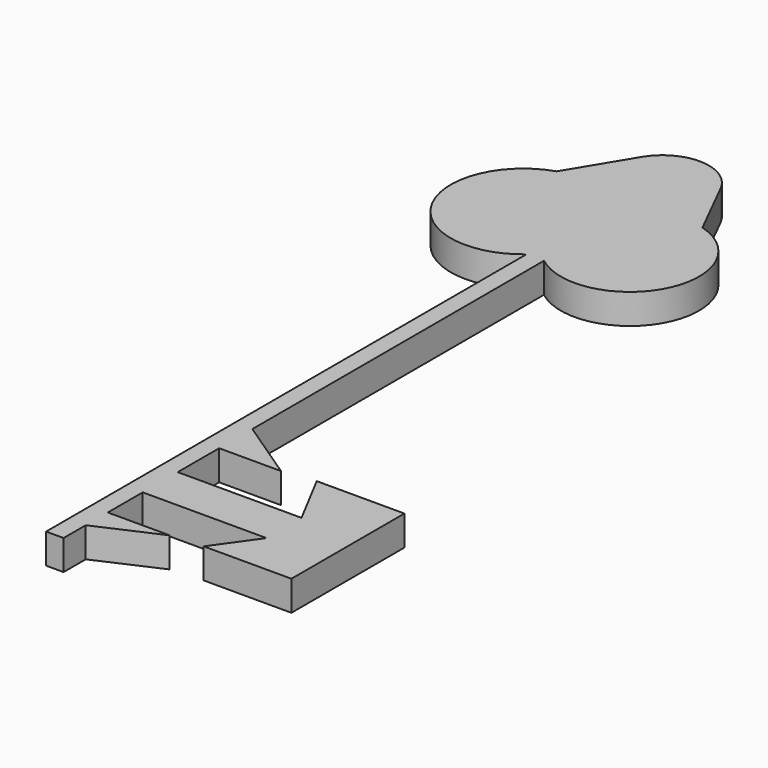
from build123d import *

# Parameters (mm, degrees)
F1_DEPTH = 2.54


with BuildPart() as f1:
    # F0 (on Top) → F1 (new body)
    with BuildSketch(Plane.XY):
        Polygon((-18.9549345523, 0), (-29.4273919121, 0), (-29.4273919121, -3.7036151625), (-18.9549345523, -3.7036151625), (-21.4509958446, -7.2187334299), (-14.033768326, -7.2187334299), (-14.033768326, -4.4066389091), (-14.033768326, 4.7326693311), (-21.4509958446, 4.7326693311), align=None)
        Polygon((-24.1911632322, 4.3811574578), (-29.4273919121, 7.8962761909), (-29.4273919121, 4.3811574578), align=None)
        Polygon((-29.4273919121, -7.3946397752), (-29.4273919121, -9.7343777306), (-24.1911632322, -7.3946397752), align=None)
        with BuildLine():
            ThreePointArc((-30.9067635438, 38.7324322517), (-30.167077728, 38.6697269906), (-29.4273919121, 38.7324322517))
            Line((-29.4273919121, 38.7324322517), (-30.9067635438, 38.7324322517))
        make_face()
        with BuildLine():
            ThreePointArc((-29.4273919121, 38.7324322517), (-26.8086242171, 40.2302917841), (-25.7729723001, 43.0638324185))
            ThreePointArc((-25.7729723001, 43.0638324185), (-27.0150914489, 46.125391663), (-30.0392081298, 47.4560769332))
            ThreePointArc((-30.0392081298, 47.4560769332), (-30.167077728, 47.4579378464), (-30.2949473262, 47.4560769332))
            ThreePointArc((-30.2949473262, 47.4560769332), (-34.5504163222, 43.3712495288), (-30.9067635438, 38.7324322517))
            Line((-30.9067635438, 38.7324322517), (-29.4273919121, 38.7324322517))
        make_face()
        with BuildLine():
            ThreePointArc((-30.2949473262, 47.4560769332), (-30.167077728, 47.4579378464), (-30.0392081298, 47.4560769332))
            ThreePointArc((-30.0392081298, 47.4560769332), (-27.3375925595, 49.0254480898), (-24.2135519416, 48.9804732743))
            Line((-24.2135519416, 48.9804732743), (-26.7800379039, 54.1119961848))
            ThreePointArc((-26.7800379039, 54.1119961848), (-26.4701199043, 53.2571925211), (-26.3649371648, 52.3540452123))
            ThreePointArc((-26.3649371648, 52.3540452123), (-31.349872342, 48.5682674745), (-33.6586145301, 54.3864631837))
            Line((-33.6586145301, 54.3864631837), (-36.7645755608, 49.2460740499))
            ThreePointArc((-36.7645755608, 49.2460740499), (-33.2634890709, 49.3134699245), (-30.2949473262, 47.4560769332))
        make_face()
        with BuildLine():
            Line((-29.4273919121, 7.8962761909), (-29.4273919121, 38.7324322517))
            ThreePointArc((-29.4273919121, 38.7324322517), (-30.167077728, 38.6697269906), (-30.9067635438, 38.7324322517))
            Line((-30.9067635438, 38.7324322517), (-30.9067635438, -7.3946397752))
            Line((-30.9067635438, -7.3946397752), (-30.9067635438, -12.0741156861))
            Line((-30.9067635438, -12.0741156861), (-29.4273919121, -12.0741156861))
            Line((-29.4273919121, -12.0741156861), (-29.4273919121, -9.7343777306))
            Line((-29.4273919121, -9.7343777306), (-29.4273919121, -7.3946397752))
            Line((-29.4273919121, -7.3946397752), (-29.4273919121, -3.7036151625))
            Line((-29.4273919121, -3.7036151625), (-29.4273919121, 0))
            Line((-29.4273919121, 0), (-29.4273919121, 4.3811574578))
            Line((-29.4273919121, 4.3811574578), (-29.4273919121, 7.8962761909))
        make_face()
        with BuildLine():
            ThreePointArc((-30.9067635438, 38.7324322517), (-34.5504163222, 43.3712495288), (-30.2949473262, 47.4560769332))
            ThreePointArc((-30.2949473262, 47.4560769332), (-33.2634890709, 49.3134699245), (-36.7645755608, 49.2460740499))
            ThreePointArc((-36.7645755608, 49.2460740499), (-40.2644028752, 40.4074009215), (-30.9067635438, 38.7324322517))
        make_face()
        with BuildLine():
            ThreePointArc((-30.0392081298, 47.4560769332), (-27.0150914489, 46.125391663), (-25.7729723001, 43.0638324185))
            ThreePointArc((-25.7729723001, 43.0638324185), (-26.8086242171, 40.2302917841), (-29.4273919121, 38.7324322517))
            ThreePointArc((-29.4273919121, 38.7324322517), (-20.6428559595, 40.7135007605), (-24.2135519416, 48.9804732743))
            ThreePointArc((-24.2135519416, 48.9804732743), (-27.3375925595, 49.0254480898), (-30.0392081298, 47.4560769332))
        make_face()
        with BuildLine():
            ThreePointArc((-26.3649371648, 52.3540452123), (-26.4701199043, 53.2571925211), (-26.7800379039, 54.1119961848))
            ThreePointArc((-26.7800379039, 54.1119961848), (-30.1382578705, 56.2809305281), (-33.6586145301, 54.3864631837))
            ThreePointArc((-33.6586145301, 54.3864631837), (-31.349872342, 48.5682674745), (-26.3649371648, 52.3540452123))
        make_face()
    extrude(amount=F1_DEPTH)


solid = f1.part
